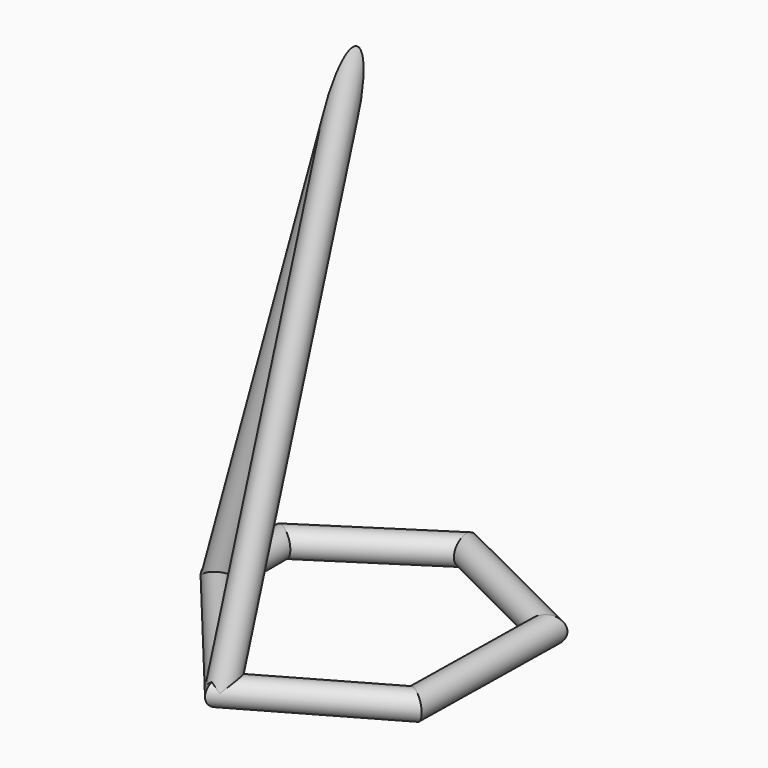
from build123d import *

# Parameters (mm, degrees)
F12_R = 5
F15_R = 5


with BuildPart() as f13:
    # F13: sweep along a path in F1
    with BuildLine(Plane.XY) as f13_path:
        Line((0, -52.9056116939), (-43.805681169, 0))
        Line((-43.805681169, 0), (-43.805681169, 29.1487425566))
        Line((-43.805681169, 29.1487425566), (0, 57.5132109225))
        Line((0, 57.5132109225), (48.8853529096, 33.2008115947))
        Line((48.8853529096, 33.2008115947), (47.8723421693, -25.5541615188))
        Line((47.8723421693, -25.5541615188), (0, -52.9056116939))
    # F12 (on line) → F13 (sweep)
    with BuildSketch(Plane(origin=(25.9885094103, -31.3872071081, 0), x_dir=(-0.7702389322, -0.6377554291, 0), z_dir=(-0.6377554291, 0.7702389322, 0))):
        with Locations((33.7408410874, 0)):
            Circle(F12_R)
    sweep(path=f13_path.line, transition=Transition.RIGHT)

    # F16: sweep along a path in F16_path
    with BuildLine(Plane(origin=(-43.805681169, 0, 0), x_dir=(0.6377554291, -0.7702389322, 0), z_dir=(0.7536633232, 0.6240308766, -0.2063420953))) as f16_path:
        Line((0, 0), (27.9373109908, -163.5189418914))
        Line((27.9373109908, -163.5189418914), (68.6872728486, 0))
    # F15 (on line) → F16 (sweep)
    with BuildSketch(Plane(origin=(-3.0546372863, 0, -11.1570452227), x_dir=(0.9645042599, 0, -0.2640672881), z_dir=(0.2640672881, 0, 0.9645042599))):
        with Locations((-42.2507660952, 0)):
            Circle(F15_R)
    sweep(path=f16_path.line, transition=Transition.RIGHT)


solid = f13.part
